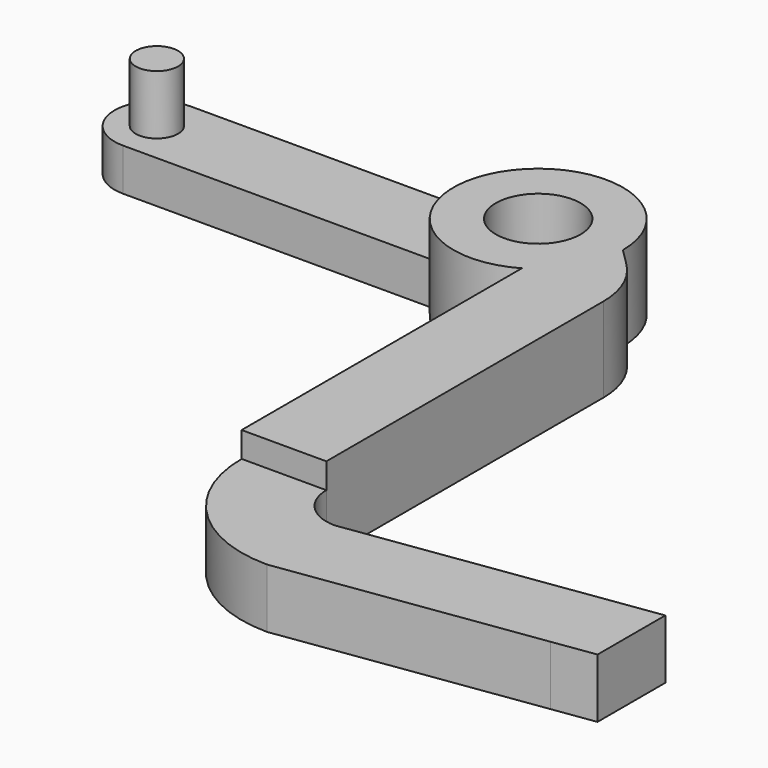
from build123d import *

# Parameters (mm, degrees)
F0_R     = 0.25
F1_DEPTH = 0.5
F0_R_2   = 0.5
F2_DEPTH = 1
F3_DEPTH = 0.7
F4_DEPTH = 0.7
F5_DEPTH = 1.2


with BuildPart() as f1:
    # F0 (on Top) → F1 (new body)
    with BuildSketch(Plane.XY):
        with BuildLine():
            Line((-5.5, 4.5), (-1.866025, 4.5))
            ThreePointArc((-1.866025, 4.5), (-2, 5), (-1.866025, 5.5))
            Line((-1.866025, 5.5), (-5.5, 5.5))
            ThreePointArc((-5.5, 5.5), (-6, 5), (-5.5, 4.5))
        make_face()
        with Locations((-5.5, 5)):
            Circle(F0_R, mode=Mode.SUBTRACT)
    extrude(amount=F1_DEPTH)

    # F0 (on Top) → F2 (join)
    with BuildSketch(Plane.XY):
        with BuildLine():
            ThreePointArc((-1.866025, 4.5), (-1.258819, 4.034074), (-0.5, 4.133975))
            Line((-0.5, 4.133975), (-0.5, 0))
            Line((-0.5, 0), (0.5, 0))
            Line((0.5, 0), (0.5, 4.085786))
            ThreePointArc((0.5, 4.085786), (0.42388, 4.46847), (0.207107, 4.792893))
            Line((0.207107, 4.792893), (0, 5))
            ThreePointArc((0, 5), (-0.741181, 5.965926), (-1.866025, 5.5))
            ThreePointArc((-1.866025, 5.5), (-2, 5), (-1.866025, 4.5))
        make_face()
        with Locations((-1, 5)):
            Circle(F0_R_2, mode=Mode.SUBTRACT)
    extrude(amount=F2_DEPTH)

    # F0 (on Top) → F3 (join)
    with BuildSketch(Plane.XY):
        with BuildLine():
            Line((0.5, 0), (-0.5, 0))
            ThreePointArc((-0.5, 0), (-0.06066, -1.06066), (1, -1.5))
            Line((1, -1.5), (4, -1.071429))
            Line((4, -1.071429), (4, -0.071429))
            Line((4, -0.071429), (1, -0.5))
            ThreePointArc((1, -0.5), (0.646447, -0.353553), (0.5, 0))
        make_face()
    extrude(amount=F3_DEPTH)

    # F0 (on Top) → F4 (join, through all)
    with BuildSketch(Plane.XY):
        Polygon((4, -0.071429), (4, -1.071429), (4.5, -1), (4.5, 0), align=None)
    extrude(amount=F4_DEPTH)

    # F0 (on Top) → F5 (join)
    with BuildSketch(Plane.XY):
        with Locations((-5.5, 5)):
            Circle(F0_R)
    extrude(amount=F5_DEPTH)


solid = f1.part
